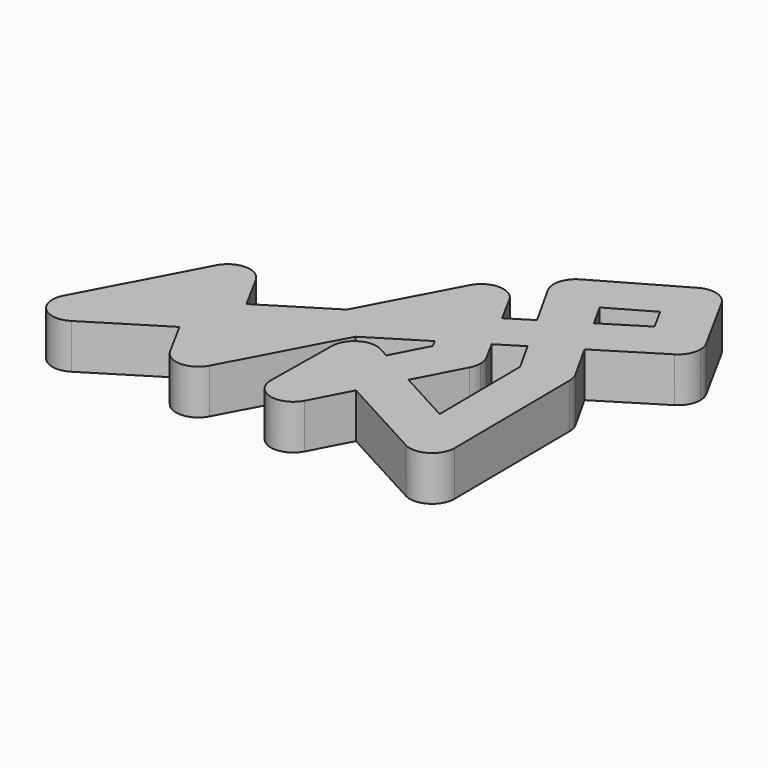
from build123d import *

# Parameters (mm, degrees)
F1_DEPTH = 9


with BuildPart() as f1:
    # F0 (on Top) → F1 (new body)
    with BuildSketch(Plane.XY):
        with BuildLine():
            ThreePointArc((-69.6048887702, -6.8844657511), (-70.5185796828, -7.6342220802), (-71.2055353566, -8.596021196))
            ThreePointArc((-71.2055353566, -8.596021196), (-70.3056022489, -13.9946183424), (-64.8588968993, -14.5313972377))
            ThreePointArc((-64.8588968993, -14.5313972377), (-63.9452059866, -13.7816409086), (-63.2582503128, -12.8198417928))
            ThreePointArc((-63.2582503128, -12.8198417928), (-62.8654645834, -11.7961889666), (-62.7318928347, -10.7079314944))
            ThreePointArc((-62.7318928347, -10.7079314944), (-65.0442550344, -6.7754715957), (-69.6048887702, -6.8844657511))
        make_face()
        with BuildLine():
            Line((-63.2582503128, -12.8198417928), (-55.4270514125, 1.9148678069))
            Line((-55.4270514125, 1.9148678069), (-69.6048887702, -6.8844657511))
            ThreePointArc((-69.6048887702, -6.8844657511), (-65.0442550344, -6.7754715957), (-62.7318928347, -10.7079314944))
            ThreePointArc((-62.7318928347, -10.7079314944), (-62.8654645834, -11.7961889666), (-63.2582503128, -12.8198417928))
        make_face()
        with BuildLine():
            ThreePointArc((-58.8932094419, 10.2638252445), (-59.4415558397, 12.3934443823), (-58.9152585008, 14.5286194466))
            Line((-58.9152585008, 14.5286194466), (-71.2055353566, -8.596021196))
            ThreePointArc((-71.2055353566, -8.596021196), (-70.5185796828, -7.6342220802), (-69.6048887702, -6.8844657511))
            Line((-69.6048887702, -6.8844657511), (-55.4270514125, 1.9148678069))
            Line((-55.4270514125, 1.9148678069), (-54.8925209734, 2.9206079104))
            Line((-54.8925209734, 2.9206079104), (-58.8932094419, 10.2638252445))
        make_face()
        with BuildLine():
            Line((-54.8925209734, 2.9206079104), (-50.967973457, 10.3047988498))
            ThreePointArc((-50.967973457, 10.3047988498), (-54.918351213, 7.9167692874), (-58.8932094419, 10.2638252445))
            Line((-58.8932094419, 10.2638252445), (-54.8925209734, 2.9206079104))
        make_face()
        with BuildLine():
            ThreePointArc((-50.967973457, 10.3047988498), (-50.5751877275, 11.328451676), (-50.4416159789, 12.4167091482))
            ThreePointArc((-50.4416159789, 12.4167091482), (-50.5808723162, 13.5275262835), (-50.9900225159, 14.5695930519))
            ThreePointArc((-50.9900225159, 14.5695930519), (-54.9648807448, 16.916649009), (-58.9152585008, 14.5286194466))
            ThreePointArc((-58.9152585008, 14.5286194466), (-59.4415558397, 12.3934443823), (-58.8932094419, 10.2638252445))
            ThreePointArc((-58.8932094419, 10.2638252445), (-54.918351213, 7.9167692874), (-50.967973457, 10.3047988498))
        make_face()
        with BuildLine():
            ThreePointArc((-50.9900225159, 14.5695930519), (-50.5808723162, 13.5275262835), (-50.4416159789, 12.4167091482))
            ThreePointArc((-50.4416159789, 12.4167091482), (-50.5751877275, 11.328451676), (-50.967973457, 10.3047988498))
            Line((-50.967973457, 10.3047988498), (-54.8925209734, 2.9206079104))
            Line((-54.8925209734, 2.9206079104), (-54.6181097925, 2.4169293671))
            Line((-54.6181097925, 2.4169293671), (-46.9589111027, 7.1705347555))
            Line((-46.9589111027, 7.1705347555), (-50.9900225159, 14.5695930519))
        make_face()
        Polygon((-42.646235985, -0.7453304586), (-46.9589111027, 7.1705347555), (-54.6181097925, 2.4169293671), (-50.3054346748, -5.498935847), align=None)
        Polygon((-54.6181097925, 2.4169293671), (-54.8925209734, 2.9206079104), (-55.4270514125, 1.9148678069), align=None)
        with BuildLine():
            Line((-50.3054346748, -5.498935847), (-54.6181097925, 2.4169293671))
            Line((-54.6181097925, 2.4169293671), (-55.4270514125, 1.9148678069))
            Line((-55.4270514125, 1.9148678069), (-63.2582503128, -12.8198417928))
            ThreePointArc((-63.2582503128, -12.8198417928), (-63.9452059866, -13.7816409086), (-64.8588968993, -14.5313972377))
            Line((-64.8588968993, -14.5313972377), (-50.3054346748, -5.498935847))
        make_face()
        Polygon((-33.4638913069, 15.546084394), (-46.9589111027, 7.1705347555), (-42.646235985, -0.7453304586), (-41.8858454209, -0.2734016278), align=None)
        with BuildLine():
            Line((-42.3887241717, -1.2179904086), (-42.646235985, -0.7453304586))
            Line((-42.646235985, -0.7453304586), (-50.3054346748, -5.498935847))
            Line((-50.3054346748, -5.498935847), (-46.294578767, -12.8608153981))
            ThreePointArc((-46.294578767, -12.8608153981), (-46.842933038, -10.7296199867), (-46.3151472997, -8.5932378807))
            Line((-46.3151472997, -8.5932378807), (-42.3887241717, -1.2179904086))
        make_face()
        Polygon((-41.8858454209, -0.2734016278), (-42.646235985, -0.7453304586), (-42.3887241717, -1.2179904086), align=None)
        with BuildLine():
            Line((-38.3913918409, -8.5550475907), (-42.3887241717, -1.2179904086))
            Line((-42.3887241717, -1.2179904086), (-46.3151472997, -8.5932378807))
            ThreePointArc((-46.3151472997, -8.5932378807), (-42.3646737963, -6.2079837603), (-38.3913918409, -8.5550475907))
        make_face()
        with BuildLine():
            Line((-41.8858454209, -0.2734016278), (-42.3887241717, -1.2179904086))
            Line((-42.3887241717, -1.2179904086), (-38.3913918409, -8.5550475907))
            ThreePointArc((-38.3913918409, -8.5550475907), (-37.9822416413, -9.5971143591), (-37.842985304, -10.7079314944))
            ThreePointArc((-37.842985304, -10.7079314944), (-37.9769385234, -11.7977184046), (-38.3708233082, -12.822625108))
            Line((-38.3708233082, -12.822625108), (-26.6585553592, 9.1772642994))
            Line((-26.6585553592, 9.1772642994), (-41.8858454209, -0.2734016278))
        make_face()
        Polygon((-20.2453090448, 23.7500658302), (-33.4638913069, 15.546084394), (-41.8858454209, -0.2734016278), (-26.6585553592, 9.1772642994), (-19.5687892579, 22.4944178032), align=None)
        with BuildLine():
            ThreePointArc((-37.842985304, -10.7079314944), (-37.9822416413, -9.5971143591), (-38.3913918409, -8.5550475907))
            ThreePointArc((-38.3913918409, -8.5550475907), (-42.3646737963, -6.2079837603), (-46.3151472997, -8.5932378807))
            ThreePointArc((-46.3151472997, -8.5932378807), (-46.842933038, -10.7296199867), (-46.294578767, -12.8608153981))
            ThreePointArc((-46.294578767, -12.8608153981), (-42.3212968117, -15.2078792285), (-38.3708233082, -12.822625108))
            ThreePointArc((-38.3708233082, -12.822625108), (-37.9769385234, -11.7977184046), (-37.842985304, -10.7079314944))
        make_face()
        with BuildLine():
            ThreePointArc((-27.216644297, -8.613111165), (-27.5957324364, -9.6011379034), (-27.7335977255, -10.650374681))
            ThreePointArc((-27.7335977255, -10.650374681), (-24.3407594189, -15.0696981029), (-19.2512873589, -12.8027518237))
            ThreePointArc((-19.2512873589, -12.8027518237), (-18.8721992194, -11.8147250853), (-18.7343339304, -10.7654883078))
            ThreePointArc((-18.7343339304, -10.7654883078), (-18.7340578545, -10.7367104896), (-18.7339658279, -10.7079314944))
            ThreePointArc((-18.7339658279, -10.7079314944), (-22.1550898181, -6.3391757728), (-27.216644297, -8.613111165))
        make_face()
        with BuildLine():
            Line((-18.6367336981, -3.1353730797), (-23.0686211662, -0.7268775915))
            Line((-23.0686211662, -0.7268775915), (-27.216644297, -8.613111165))
            ThreePointArc((-27.216644297, -8.613111165), (-22.1550898181, -6.3391757728), (-18.7339658279, -10.7079314944))
            ThreePointArc((-18.7339658279, -10.7079314944), (-18.7340578545, -10.7367104896), (-18.7343339304, -10.7654883078))
            Line((-18.7343339304, -10.7654883078), (-18.6367336981, -3.1353730797))
        make_face()
        with BuildLine():
            ThreePointArc((-25.1896877217, 0.4258094445), (-26.9233693413, 2.1043690059), (-27.5406054129, 4.4372285797))
            Line((-27.5406054129, 4.4372285797), (-27.7335977255, -10.650374681))
            ThreePointArc((-27.7335977255, -10.650374681), (-27.5957324364, -9.6011379034), (-27.216644297, -8.613111165))
            Line((-27.216644297, -8.613111165), (-23.0686211662, -0.7268775915))
            Line((-23.0686211662, -0.7268775915), (-25.1896877217, 0.4258094445))
        make_face()
        with BuildLine():
            Line((-23.0686211662, -0.7268775915), (-22.744442151, -0.1105475101))
            ThreePointArc((-22.744442151, -0.1105475101), (-24.0051130362, -0.0158299098), (-25.1896877217, 0.4258094445))
            Line((-25.1896877217, 0.4258094445), (-23.0686211662, -0.7268775915))
        make_face()
        with BuildLine():
            Line((-22.744442151, -0.1105475101), (-19.1730228604, 6.6794451748))
            ThreePointArc((-19.1730228604, 6.6794451748), (-19.9210269539, 7.6224997687), (-20.8922593091, 8.3335340881))
            ThreePointArc((-20.8922593091, 8.3335340881), (-25.3162762758, 8.2620675921), (-27.5406054129, 4.4372285797))
            ThreePointArc((-27.5406054129, 4.4372285797), (-26.9233693413, 2.1043690059), (-25.1896877217, 0.4258094445))
            ThreePointArc((-25.1896877217, 0.4258094445), (-24.0051130362, -0.0158299098), (-22.744442151, -0.1105475101))
        make_face()
        with BuildLine():
            ThreePointArc((-18.5409735154, 4.3796717663), (-18.7018619734, 5.572194733), (-19.1730228604, 6.6794451748))
            Line((-19.1730228604, 6.6794451748), (-22.744442151, -0.1105475101))
            ThreePointArc((-22.744442151, -0.1105475101), (-19.7755608866, 1.2833706886), (-18.5413416179, 4.3221149529))
            ThreePointArc((-18.5413416179, 4.3221149529), (-18.541065542, 4.350892771), (-18.5409735154, 4.3796717663))
        make_face()
        with BuildLine():
            ThreePointArc((-18.5413416179, 4.3221149529), (-19.7755608866, 1.2833706886), (-22.744442151, -0.1105475101))
            Line((-22.744442151, -0.1105475101), (-23.0686211662, -0.7268775915))
            Line((-23.0686211662, -0.7268775915), (-18.6367336981, -3.1353730797))
            Line((-18.6367336981, -3.1353730797), (-18.5413416179, 4.3221149529))
        make_face()
        with BuildLine():
            Line((-10.9701401389, 2.9413892225), (-18.8785941021, 7.2392139816))
            Line((-18.8785941021, 7.2392139816), (-19.1730228604, 6.6794451748))
            ThreePointArc((-19.1730228604, 6.6794451748), (-18.7018619734, 5.572194733), (-18.5409735154, 4.3796717663))
            ThreePointArc((-18.5409735154, 4.3796717663), (-18.541065542, 4.350892771), (-18.5413416179, 4.3221149529))
            Line((-18.5413416179, 4.3221149529), (-18.6367336981, -3.1353730797))
            Line((-18.6367336981, -3.1353730797), (-15.160167203, -5.0247023505))
            Line((-15.160167203, -5.0247023505), (-10.9701401389, 2.9413892225))
        make_face()
        with BuildLine():
            Line((0.1559297945, -3.1050389482), (-10.9701401389, 2.9413892225))
            Line((-10.9701401389, 2.9413892225), (-15.160167203, -5.0247023505))
            Line((-15.160167203, -5.0247023505), (2.5731045027, -14.6617938162))
            ThreePointArc((2.5731045027, -14.6617938162), (0.8640306217, -13.0247118192), (0.2219868238, -10.746828864))
            Line((0.2219868238, -10.746828864), (0.1559297945, -3.1050389482))
        make_face()
        with BuildLine():
            Line((6.8705329153, -6.7540691726), (0.1559297945, -3.1050389482))
            Line((0.1559297945, -3.1050389482), (0.2219868238, -10.746828864))
            ThreePointArc((0.2219868238, -10.746828864), (2.4050383842, -6.8501434071), (6.8705329153, -6.7540691726))
        make_face()
        with BuildLine():
            Line((-19.1730228604, 6.6794451748), (-18.8785941021, 7.2392139816))
            Line((-18.8785941021, 7.2392139816), (-20.8922593091, 8.3335340881))
            ThreePointArc((-20.8922593091, 8.3335340881), (-19.9210269539, 7.6224997687), (-19.1730228604, 6.6794451748))
        make_face()
        with BuildLine():
            Line((-14.0230348329, 12.2012737804), (-15.1593316453, 14.3102865218))
            Line((-15.1593316453, 14.3102865218), (-18.8785941021, 7.2392139816))
            Line((-18.8785941021, 7.2392139816), (-10.9701401389, 2.9413892225))
            Line((-10.9701401389, 2.9413892225), (-6.0787654687, 12.2408848928))
            ThreePointArc((-6.0787654687, 12.2408848928), (-10.0390066586, 9.8357611593), (-14.0230348329, 12.2012737804))
        make_face()
        with BuildLine():
            Line((-14.0441224068, 16.4305255515), (-15.1593316453, 14.3102865218))
            Line((-15.1593316453, 14.3102865218), (-14.0230348329, 12.2012737804))
            ThreePointArc((-14.0230348329, 12.2012737804), (-14.5613880006, 14.3132679429), (-14.0441224068, 16.4305255515))
        make_face()
        with BuildLine():
            Line((-13.2803807774, 17.4802951195), (-15.9684212864, 15.811989548))
            Line((-15.9684212864, 15.811989548), (-15.1593316453, 14.3102865218))
            Line((-15.1593316453, 14.3102865218), (-14.0441224068, 16.4305255515))
            ThreePointArc((-14.0441224068, 16.4305255515), (-13.7003063699, 16.9830964286), (-13.2803807774, 17.4802951195))
        make_face()
        with BuildLine():
            Line((-11.4506321909, 18.6159103571), (-13.2803807774, 17.4802951195))
            ThreePointArc((-13.2803807774, 17.4802951195), (-13.7003063699, 16.9830964286), (-14.0441224068, 16.4305255515))
            ThreePointArc((-14.0441224068, 16.4305255515), (-14.5613880006, 14.3132679429), (-14.0230348329, 12.2012737804))
            ThreePointArc((-14.0230348329, 12.2012737804), (-10.0390066586, 9.8357611593), (-6.0787654687, 12.2408848928))
            ThreePointArc((-6.0787654687, 12.2408848928), (-5.6926882161, 13.2568292123), (-5.5614439378, 14.3357052222))
            ThreePointArc((-5.5614439378, 14.3357052222), (-5.6981218646, 15.4363507082), (-6.0998530426, 16.4701366639))
            ThreePointArc((-6.0998530426, 16.4701366639), (-8.3865110962, 18.5123785367), (-11.4506321909, 18.6159103571))
        make_face()
        Polygon((-18.2366012452, 24.9967503211), (-20.2453090448, 23.7500658302), (-19.5687892579, 22.4944178032), align=None)
        with BuildLine():
            Line((-23.5540924439, 29.8913013515), (-20.2453090448, 23.7500658302))
            Line((-20.2453090448, 23.7500658302), (-18.2366012452, 24.9967503211))
            Line((-18.2366012452, 24.9967503211), (-15.620339553, 29.9110391796))
            ThreePointArc((-15.620339553, 29.9110391796), (-19.5813063486, 27.5257467191), (-23.5540924439, 29.8913013515))
        make_face()
        with BuildLine():
            Line((-23.5646635445, 34.1404264069), (-33.4638913069, 15.546084394))
            Line((-33.4638913069, 15.546084394), (-20.2453090448, 23.7500658302))
            Line((-20.2453090448, 23.7500658302), (-23.5540924439, 29.8913013515))
            ThreePointArc((-23.5540924439, 29.8913013515), (-24.0924876229, 32.0145375931), (-23.5646635445, 34.1404264069))
        make_face()
        with BuildLine():
            ThreePointArc((-15.6309106536, 34.160164235), (-19.6036967489, 36.5257188674), (-23.5646635445, 34.1404264069))
            ThreePointArc((-23.5646635445, 34.1404264069), (-24.0924876229, 32.0145375931), (-23.5540924439, 29.8913013515))
            ThreePointArc((-23.5540924439, 29.8913013515), (-19.5813063486, 27.5257467191), (-15.620339553, 29.9110391796))
            ThreePointArc((-15.620339553, 29.9110391796), (-15.2264547682, 30.9359458831), (-15.0925015488, 32.0257327933))
            ThreePointArc((-15.0925015488, 32.0257327933), (-15.2291794756, 33.1263782793), (-15.6309106536, 34.160164235))
        make_face()
        with BuildLine():
            Line((-15.620339553, 29.9110391796), (-18.2366012452, 24.9967503211))
            Line((-18.2366012452, 24.9967503211), (-12.5840023789, 28.5049795129))
            Line((-12.5840023789, 28.5049795129), (-15.6309106536, 34.160164235))
            ThreePointArc((-15.6309106536, 34.160164235), (-15.2291794756, 33.1263782793), (-15.0925015488, 32.0257327933))
            ThreePointArc((-15.0925015488, 32.0257327933), (-15.2264547682, 30.9359458831), (-15.620339553, 29.9110391796))
        make_face()
        with BuildLine():
            Line((-12.5840023789, 28.5049795129), (-18.2366012452, 24.9967503211))
            Line((-18.2366012452, 24.9967503211), (-19.5687892579, 22.4944178032))
            Line((-19.5687892579, 22.4944178032), (-15.9684212864, 15.811989548))
            Line((-15.9684212864, 15.811989548), (-13.2803807774, 17.4802951195))
            ThreePointArc((-13.2803807774, 17.4802951195), (-12.4344398732, 18.1591709655), (-11.4506321909, 18.6159103571))
            Line((-11.4506321909, 18.6159103571), (-8.3071146204, 20.5669032308))
            Line((-8.3071146204, 20.5669032308), (-12.5840023789, 28.5049795129))
        make_face()
        Polygon((-7.8767613739, 31.4264817629), (-12.5840023789, 28.5049795129), (-8.3071146204, 20.5669032308), (-3.4813896424, 23.5619413787), align=None)
        with BuildLine():
            Line((-12.9033706879, 40.4204814427), (-7.8767613739, 31.4264817629))
            Line((-7.8767613739, 31.4264817629), (-0.2217959499, 36.1774598171))
            Line((-0.2217959499, 36.1774598171), (-2.8763679981, 40.9272262422))
            Line((-2.8763679981, 40.9272262422), (-6.73561101, 38.7127699641))
            ThreePointArc((-6.73561101, 38.7127699641), (-10.1759981621, 38.2790244557), (-12.9033706879, 40.4204814427))
        make_face()
        with BuildLine():
            ThreePointArc((-11.2113578763, 46.5209498956), (-13.3115272854, 43.8185676227), (-12.9033706879, 40.4204814427))
            ThreePointArc((-12.9033706879, 40.4204814427), (-10.1759981621, 38.2790244557), (-6.73561101, 38.7127699641))
            ThreePointArc((-6.73561101, 38.7127699641), (-5.0811117548, 40.3606750133), (-4.4752274396, 42.6158608224))
            ThreePointArc((-4.4752274396, 42.6158608224), (-4.6205377482, 43.7501789839), (-5.0470841913, 44.8112402022))
            ThreePointArc((-5.0470841913, 44.8112402022), (-7.7725206392, 46.9521606682), (-11.2113578763, 46.5209498956))
        make_face()
        with BuildLine():
            Line((-6.73561101, 38.7127699641), (-2.8763679981, 40.9272262422))
            Line((-2.8763679981, 40.9272262422), (-5.0470841913, 44.8112402022))
            ThreePointArc((-5.0470841913, 44.8112402022), (-4.6205377482, 43.7501789839), (-4.4752274396, 42.6158608224))
            ThreePointArc((-4.4752274396, 42.6158608224), (-5.0811117548, 40.3606750133), (-6.73561101, 38.7127699641))
        make_face()
        with BuildLine():
            Line((-5.0470841913, 44.8112402022), (-2.8763679981, 40.9272262422))
            Line((-2.8763679981, 40.9272262422), (5.4780121385, 45.7210185702))
            Line((5.4780121385, 45.7210185702), (3.2785500091, 49.744594914))
            ThreePointArc((3.2785500091, 49.744594914), (2.8971985794, 53.1198072058), (4.9878029423, 55.7969064429))
            Line((4.9878029423, 55.7969064429), (-11.2113578763, 46.5209498956))
            ThreePointArc((-11.2113578763, 46.5209498956), (-7.7725206392, 46.9521606682), (-5.0470841913, 44.8112402022))
        make_face()
        with BuildLine():
            Line((3.2785500091, 49.744594914), (5.4780121385, 45.7210185702))
            Line((5.4780121385, 45.7210185702), (9.4552607777, 48.0031871694))
            ThreePointArc((9.4552607777, 48.0031871694), (6.0009643953, 47.5759114557), (3.2785500091, 49.744594914))
        make_face()
        with BuildLine():
            ThreePointArc((11.158458001, 54.058210215), (8.437967996, 56.2223713499), (4.9878029423, 55.7969064429))
            ThreePointArc((4.9878029423, 55.7969064429), (2.8971985794, 53.1198072058), (3.2785500091, 49.744594914))
            ThreePointArc((3.2785500091, 49.744594914), (6.0009643953, 47.5759114557), (9.4552607777, 48.0031871694))
            ThreePointArc((9.4552607777, 48.0031871694), (11.1066959196, 49.6480403177), (11.7114581441, 51.899049549))
            ThreePointArc((11.7114581441, 51.899049549), (11.5710123736, 53.0134758521), (11.158458001, 54.058210215))
        make_face()
        with BuildLine():
            Line((5.4780121385, 45.7210185702), (7.9294671819, 41.2364601009))
            Line((7.9294671819, 41.2364601009), (11.5475126449, 43.4819639851))
            ThreePointArc((11.5475126449, 43.4819639851), (15.0640613644, 44.0107720188), (17.8664823872, 41.8216650674))
            Line((17.8664823872, 41.8216650674), (11.158458001, 54.058210215))
            ThreePointArc((11.158458001, 54.058210215), (11.5710123736, 53.0134758521), (11.7114581441, 51.899049549))
            ThreePointArc((11.7114581441, 51.899049549), (11.1066959196, 49.6480403177), (9.4552607777, 48.0031871694))
            Line((9.4552607777, 48.0031871694), (5.4780121385, 45.7210185702))
        make_face()
        with BuildLine():
            Line((11.5475126449, 43.4819639851), (7.9294671819, 41.2364601009))
            Line((7.9294671819, 41.2364601009), (9.9719538205, 37.5000461787))
            ThreePointArc((9.9719538205, 37.5000461787), (9.5689185308, 40.8046500821), (11.5475126449, 43.4819639851))
        make_face()
        with BuildLine():
            ThreePointArc((17.8664823872, 41.8216650674), (15.0640613644, 44.0107720188), (11.5475126449, 43.4819639851))
            ThreePointArc((11.5475126449, 43.4819639851), (9.5689185308, 40.8046500821), (9.9719538205, 37.5000461787))
            ThreePointArc((9.9719538205, 37.5000461787), (12.77435674, 35.3069081923), (16.2935045158, 35.8350324985))
            ThreePointArc((16.2935045158, 35.8350324985), (17.852968479, 37.4708604415), (18.4205085803, 39.6584982418))
            ThreePointArc((18.4205085803, 39.6584982418), (18.2798022233, 40.7749922787), (17.8664823872, 41.8216650674))
        make_face()
        with BuildLine():
            Line((7.9294671819, 41.2364601009), (-0.2217959499, 36.1774598171))
            Line((-0.2217959499, 36.1774598171), (4.1735757817, 28.3129194328))
            Line((4.1735757817, 28.3129194328), (16.2935045158, 35.8350324985))
            ThreePointArc((16.2935045158, 35.8350324985), (12.77435674, 35.3069081923), (9.9719538205, 37.5000461787))
            Line((9.9719538205, 37.5000461787), (7.9294671819, 41.2364601009))
        make_face()
        with BuildLine():
            ThreePointArc((-11.4506321909, 18.6159103571), (-12.4344398732, 18.1591709655), (-13.2803807774, 17.4802951195))
            Line((-13.2803807774, 17.4802951195), (-11.4506321909, 18.6159103571))
        make_face()
        Polygon((-0.2217959499, 36.1774598171), (-7.8767613739, 31.4264817629), (-3.4813896424, 23.5619413787), (4.1735757817, 28.3129194328), align=None)
        with BuildLine():
            Line((4.1735757817, 28.3129194328), (-3.4813896424, 23.5619413787))
            Line((-3.4813896424, 23.5619413787), (-0.0210641479, 17.370458324))
            Line((-0.0210641479, 17.370458324), (-0.0310168917, 18.5218388579))
            ThreePointArc((-0.0310168917, 18.5218388579), (3.3156865866, 22.9104827578), (8.3969582417, 20.7561156073))
            Line((8.3969582417, 20.7561156073), (4.1735757817, 28.3129194328))
        make_face()
        with BuildLine():
            ThreePointArc((8.9686468786, 18.5996335972), (8.8185615237, 19.7138646343), (8.3969582417, 20.7561156073))
            ThreePointArc((8.3969582417, 20.7561156073), (3.3156865866, 22.9104827578), (-0.0310168917, 18.5218388579))
            ThreePointArc((-0.0310168917, 18.5218388579), (0.1190684632, 17.4076078208), (0.5406717451, 16.3653568478))
            ThreePointArc((0.5406717451, 16.3653568478), (5.6031331548, 14.2060465361), (8.9688149934, 18.5607362276))
            ThreePointArc((8.9688149934, 18.5607362276), (8.9687729645, 18.580185094), (8.9686468786, 18.5996335972))
        make_face()
        with BuildLine():
            Line((0.5406717451, 16.3653568478), (-0.0210641479, 17.370458324))
            Line((-0.0210641479, 17.370458324), (0.1559297945, -3.1050389482))
            Line((0.1559297945, -3.1050389482), (6.8705329153, -6.7540691726))
            ThreePointArc((6.8705329153, -6.7540691726), (8.5796067963, -8.3911511696), (9.2216505941, -10.6690341248))
            Line((9.2216505941, -10.6690341248), (8.9686468786, 18.5996335972))
            ThreePointArc((8.9686468786, 18.5996335972), (8.9687729645, 18.580185094), (8.9688149934, 18.5607362276))
            ThreePointArc((8.9688149934, 18.5607362276), (5.6031331548, 14.2060465361), (0.5406717451, 16.3653568478))
        make_face()
        with BuildLine():
            ThreePointArc((0.2219868238, -10.746828864), (0.8640306217, -13.0247118192), (2.5731045027, -14.6617938162))
            ThreePointArc((2.5731045027, -14.6617938162), (7.02190415, -14.5756966067), (9.221818709, -10.7079314944))
            ThreePointArc((9.221818709, -10.7079314944), (9.2217766801, -10.6884826279), (9.2216505941, -10.6690341248))
            ThreePointArc((9.2216505941, -10.6690341248), (8.5796067963, -8.3911511696), (6.8705329153, -6.7540691726))
            ThreePointArc((6.8705329153, -6.7540691726), (2.4050383842, -6.8501434071), (0.2219868238, -10.746828864))
        make_face()
        with BuildLine():
            Line((-0.0310168917, 18.5218388579), (-0.0210641479, 17.370458324))
            Line((-0.0210641479, 17.370458324), (0.5406717451, 16.3653568478))
            ThreePointArc((0.5406717451, 16.3653568478), (0.1190684632, 17.4076078208), (-0.0310168917, 18.5218388579))
        make_face()
        with BuildLine():
            Line((-6.0998530426, 16.4701366639), (-8.3071146204, 20.5669032308))
            Line((-8.3071146204, 20.5669032308), (-11.4506321909, 18.6159103571))
            ThreePointArc((-11.4506321909, 18.6159103571), (-8.3865110962, 18.5123785367), (-6.0998530426, 16.4701366639))
        make_face()
        Polygon((-19.5687892579, 22.4944178032), (-26.6585553592, 9.1772642994), (-15.9684212864, 15.811989548), align=None)
        with BuildLine():
            Line((-19.2512873589, -12.8027518237), (-15.160167203, -5.0247023505))
            Line((-15.160167203, -5.0247023505), (-18.6367336981, -3.1353730797))
            Line((-18.6367336981, -3.1353730797), (-18.7343339304, -10.7654883078))
            ThreePointArc((-18.7343339304, -10.7654883078), (-18.8721992194, -11.8147250853), (-19.2512873589, -12.8027518237))
        make_face()
    extrude(amount=F1_DEPTH)


solid = f1.part
